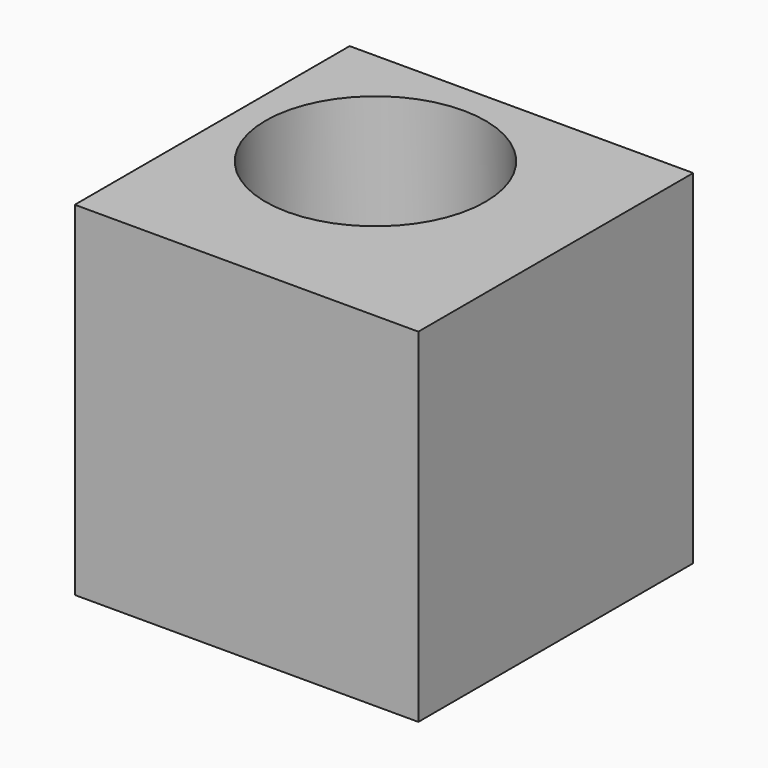
from build123d import *

# Parameters (mm, degrees)
SKETCH099_W      = 5
SKETCH099_H      = 5
EXTRUDE035_DEPTH = 5
SKETCH100_R      = 1.6
HOLE021_DEPTH    = 2.2
HOLE021_TIPS_R   = 1.6


with BuildPart() as part:
    # Sketch099 (on Face9 of Pocket017) → Extrude035 (new body)
    with BuildSketch(Plane.XZ.offset(16.37)):
        with Locations((4.5, 18.8)):
            Rectangle(SKETCH099_W, SKETCH099_H)
    extrude(amount=EXTRUDE035_DEPTH)

    # Sketch100 (on Face1 of Extrude035) → Hole021 (cut)
    with BuildSketch(Plane.XY.offset(21.3)):
        with Locations((4, -18.4)):
            Circle(SKETCH100_R)
    extrude(amount=-HOLE021_DEPTH, mode=Mode.SUBTRACT)

    # Hole021 tips → Hole021 tip 1 section 0
    with BuildSketch(Plane.XY.offset(19.1), mode=Mode.PRIVATE) as hole021_tip_1_s0:
        with Locations((4, -18.4)):
            Circle(HOLE021_TIPS_R)
    loft([hole021_tip_1_s0.sketch, Vertex(4, -18.4, 18.138623)], mode=Mode.SUBTRACT)


solid = part.part
